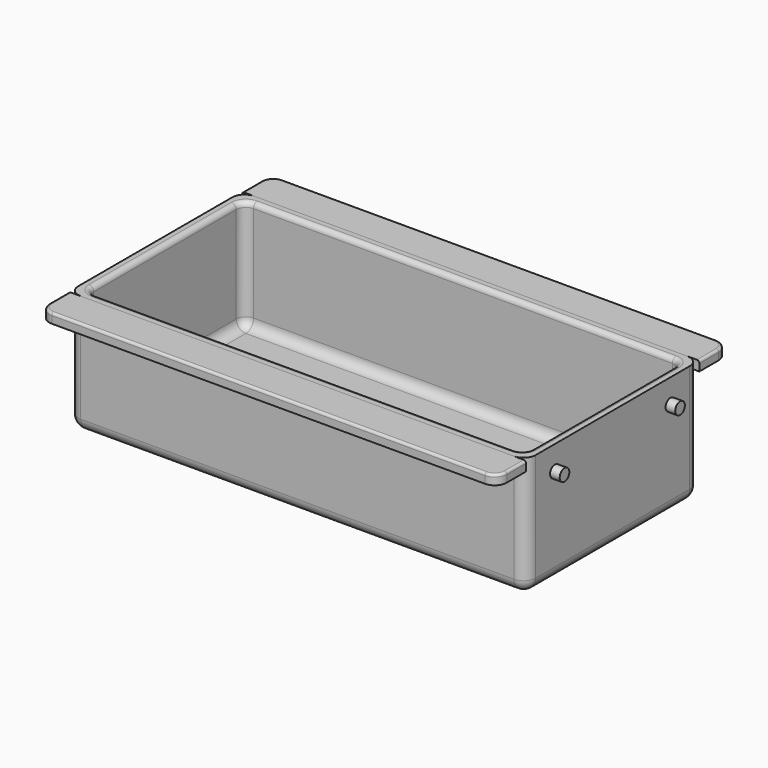
from build123d import *

# Parameters (mm, degrees)
F0_W      = 190
F0_H      = 90
F0_W_2    = 182
F0_H_2    = 82
F1_DEPTH  = 46
F2_W      = 190
F2_H      = 90
F2_W_2    = 182
F2_H_2    = 82
F3_DEPTH  = 4
F4_R      = 4
F5_W      = 190
F5_H      = 15
F6_DEPTH  = 4
F7_R      = 5
F7_2_R    = 5
F8_R      = 2
F9_R      = 1
F9_2_R    = 1
F10_R     = 5
F11_R     = 2.5
F12_DEPTH = 4
F13_R     = 2.5
F14_DEPTH = 4


with BuildPart() as f1:
    # F0 (on Top) → F1 (new body)
    with BuildSketch(Plane.XY):
        Rectangle(F0_W, F0_H)
        Rectangle(F0_W_2, F0_H_2, mode=Mode.SUBTRACT)
    extrude(amount=F1_DEPTH)

    # F2 (on face) → F3 (join)
    with BuildSketch(Plane(origin=(0, 0, 0), x_dir=(1, 0, 0), z_dir=(0, 0, -1))):
        Rectangle(F2_W, F2_H)
        Rectangle(F2_W_2, F2_H_2, mode=Mode.SUBTRACT)
        Rectangle(F2_W_2, F2_H_2)
    extrude(amount=F3_DEPTH)

    # F4
    f4_edges = [f1.edges().sort_by_distance(p)[0] for p in [
        (0, 41, 0),
        (-91, 0, 0),
        (91, 0, 0),
        (0, -41, 0),
        (91, -41, 23),
        (91, 41, 23),
        (-91, 41, 23),
        (-91, -41, 23),
    ]]
    fillet(f4_edges, radius=F4_R)

    # F8
    f8_edges = [f1.edges().sort_by_distance(p)[0] for p in [
        (0, 41, 46),
        (89.828427, 39.828427, 46),
    ]]
    fillet(f8_edges, radius=F8_R)

    # F10
    f10_edges = [f1.edges().sort_by_distance(p)[0] for p in [
        (95, 45, 21),
        (0, 45, -4),
        (-95, 45, 21),
        (-95, 0, -4),
        (0, -45, -4),
        (95, 0, -4),
        (95, -45, 21),
        (-95, -45, 21),
    ]]
    fillet(f10_edges, radius=F10_R)

    # F11 (on face) → F12 (join)
    with BuildSketch(Plane(origin=(-95, 0, 0), x_dir=(0, -1, 0), z_dir=(-1, 0, 0))):
        with Locations((-30, 36)):
            Circle(F11_R)
        with Locations((30, 36)):
            Circle(F11_R)
    extrude(amount=F12_DEPTH)

    # F13 (on face) → F14 (join)
    with BuildSketch(Plane.YZ.offset(95)):
        with Locations((-30, 36)):
            Circle(F13_R)
        with Locations((30, 36)):
            Circle(F13_R)
    extrude(amount=F14_DEPTH)


with BuildPart() as f6:
    # F5 (on face) → F6 (new body)
    with BuildSketch(Plane.XY.offset(46)):
        with Locations((0, -52.5)):
            Rectangle(F5_W, F5_H)
    extrude(amount=-F6_DEPTH)

    # F7
    f7_edges = [f6.edges().sort_by_distance(p)[0] for p in [
        (-95, -60, 44),
        (95, -60, 44),
    ]]
    fillet(f7_edges, radius=F7_R)

    # F9#2
    f9_2_edges = [f6.edges().sort_by_distance(p)[0] for p in [
        (-95, -50, 46),
    ]]
    fillet(f9_2_edges, radius=F9_2_R)


with BuildPart() as f6b:
    # F5 (on face) → F6, piece 2 (new body)
    with BuildSketch(Plane.XY.offset(46)):
        with Locations((0, 52.5)):
            Rectangle(F5_W, F5_H)
    extrude(amount=-F6_DEPTH)

    # F7#2
    f7_2_edges = [f6b.edges().sort_by_distance(p)[0] for p in [
        (95, 60, 44),
        (-95, 60, 44),
    ]]
    fillet(f7_2_edges, radius=F7_2_R)

    # F9
    f9_edges = [f6b.edges().sort_by_distance(p)[0] for p in [
        (-95, 50, 46),
    ]]
    fillet(f9_edges, radius=F9_R)


solid = Compound([f1.part, f6.part, f6b.part])
